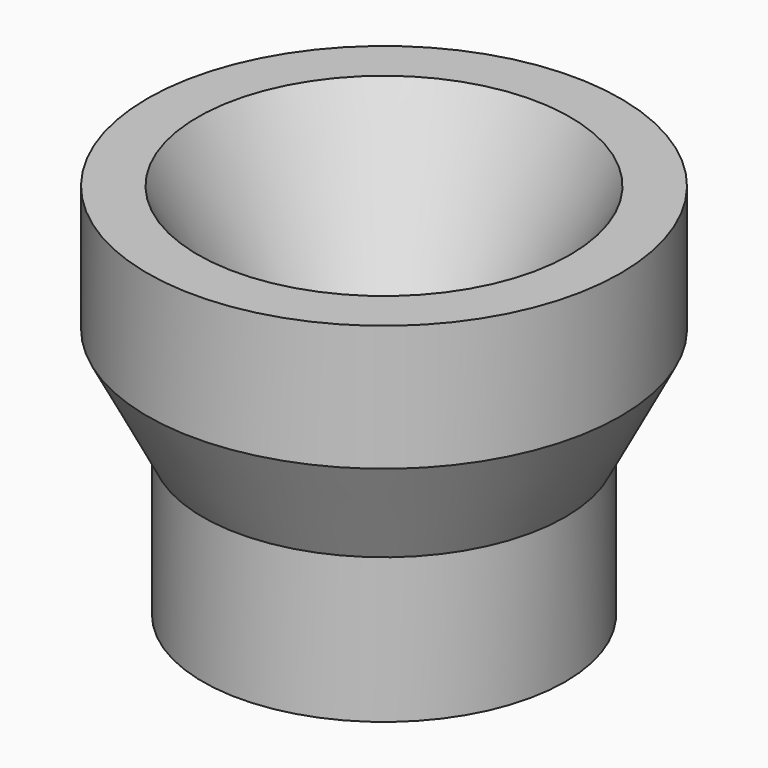
from build123d import *

# Parameters (mm, degrees)
F3_DEPTH = 25


with BuildPart() as f1:
    # F0 (on Front) → F1 (revolve)
    with BuildSketch(Plane.XZ):
        Polygon((7.2, 5.759036), (9.4, 10), (9.4, 15), (7.4, 15), (3.25, 7), (3.25, 5), (5.2, 5), (5.2, 0), (7.2, 0), align=None)
    revolve(axis=Axis((0, 0, 5), (0, 0, 1)))

    # F2 (on Front) → F3 (cut)
    with BuildSketch(Plane.XZ):
        Polygon((4.25, 5), (-4.25, 5), (-4.25, 0), (0, 0), (4.25, 0), align=None)
    extrude(amount=-F3_DEPTH, mode=Mode.SUBTRACT)


solid = f1.part
